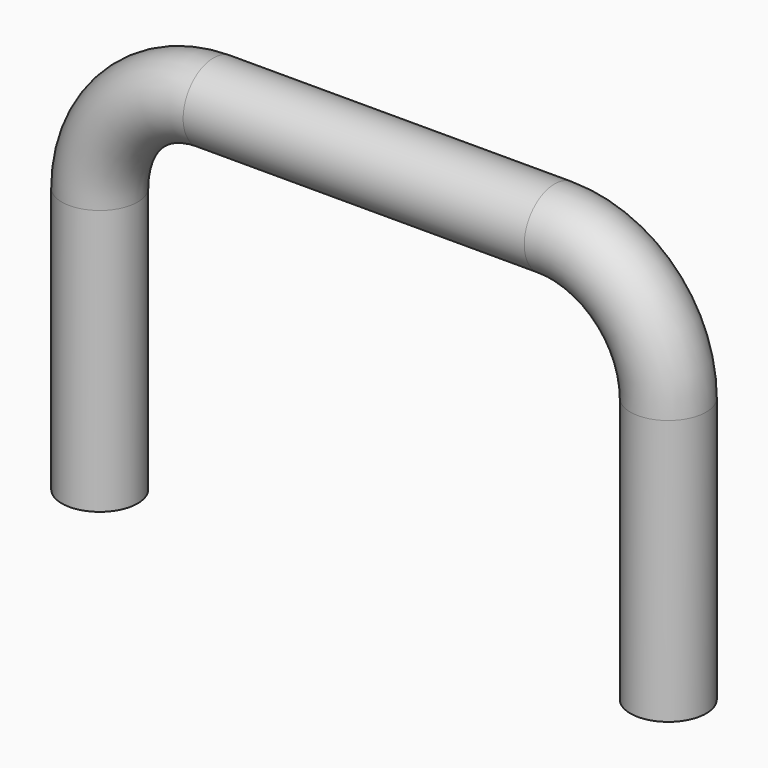
from build123d import *

# Parameters (mm, degrees)
F1_R = 1


with BuildPart() as f2:
    # F2: sweep along a path in F0
    with BuildLine(Plane.XZ) as f2_path:
        Line((0, 0), (0, 7))
        ThreePointArc((0, 7), (0.87868, 9.12132), (3, 10))
        Line((3, 10), (12, 10))
        ThreePointArc((12, 10), (14.12132, 9.12132), (15, 7))
        Line((15, 7), (15, 0))
    # F1 (on Top) → F2 (sweep)
    with BuildSketch(Plane.XY):
        Circle(F1_R)
    sweep(path=f2_path.line)


solid = f2.part
